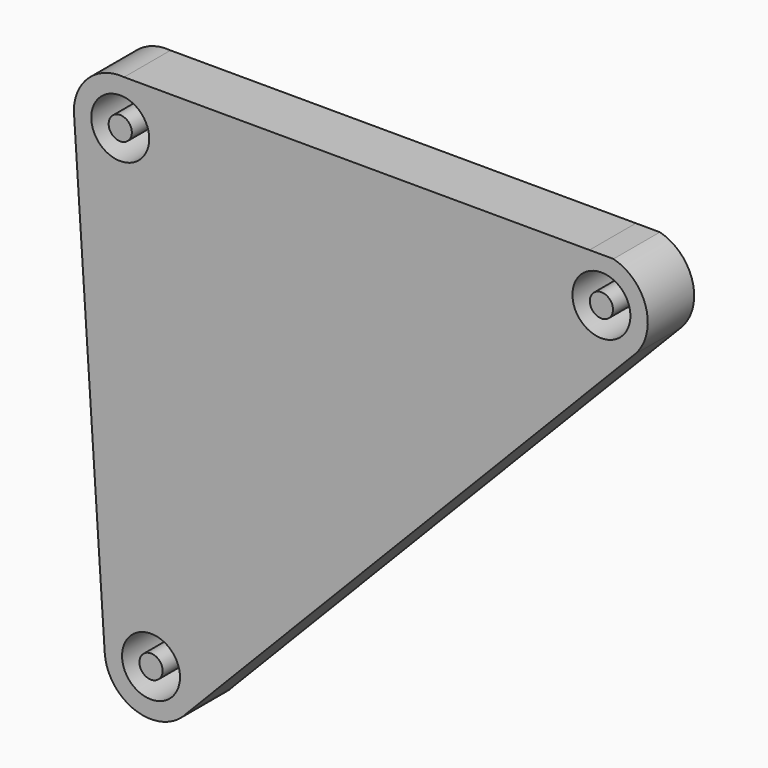
from build123d import *

# Parameters (mm, degrees)
F0_R     = 2.5
F1_DEPTH = 5
F0_R_2   = 1
F2_DEPTH = 5


with BuildPart() as f1:
    # F0 (on Front) → F1 (new body)
    with BuildSketch(Plane.XZ):
        with BuildLine():
            Line((26.483987, 17.167182), (-13.654549, 17.24186))
            ThreePointArc((-13.654549, 17.24186), (-16.68381, 16.210469), (-17.987456, 13.288022))
            Line((-17.987456, 13.288022), (-17.948454, 12.697597))
            Line((-17.948454, 12.697597), (-15.324757, -27.019981))
            ThreePointArc((-15.324757, -27.019981), (-12.553207, -30.565809), (-8.237575, -29.289207))
            Line((-8.237575, -29.289207), (30.383213, 10.516259))
            ThreePointArc((30.383213, 10.516259), (31.369194, 14.362325), (28.555165, 17.163329))
            Line((28.555165, 17.163329), (26.483987, 17.167182))
        make_face()
        with Locations((-11.333456, -26.75632)):
            Circle(F0_R, mode=Mode.SUBTRACT)
        with Locations((-13.987587, 13.255748)):
            Circle(F0_R, mode=Mode.SUBTRACT)
        with Locations((27.512388, 13.301643)):
            Circle(F0_R, mode=Mode.SUBTRACT)
    extrude(amount=F1_DEPTH)


with BuildPart() as f2:
    # F0 (on Front) → F2 (new body)
    with BuildSketch(Plane.XZ):
        with Locations((-13.987587, 13.255748)):
            Circle(F0_R_2)
        with Locations((27.512388, 13.301643)):
            Circle(F0_R_2)
        with Locations((-11.333456, -26.75632)):
            Circle(F0_R_2)
    extrude(amount=F2_DEPTH)


solid = Compound([f1.part, f2.part])
